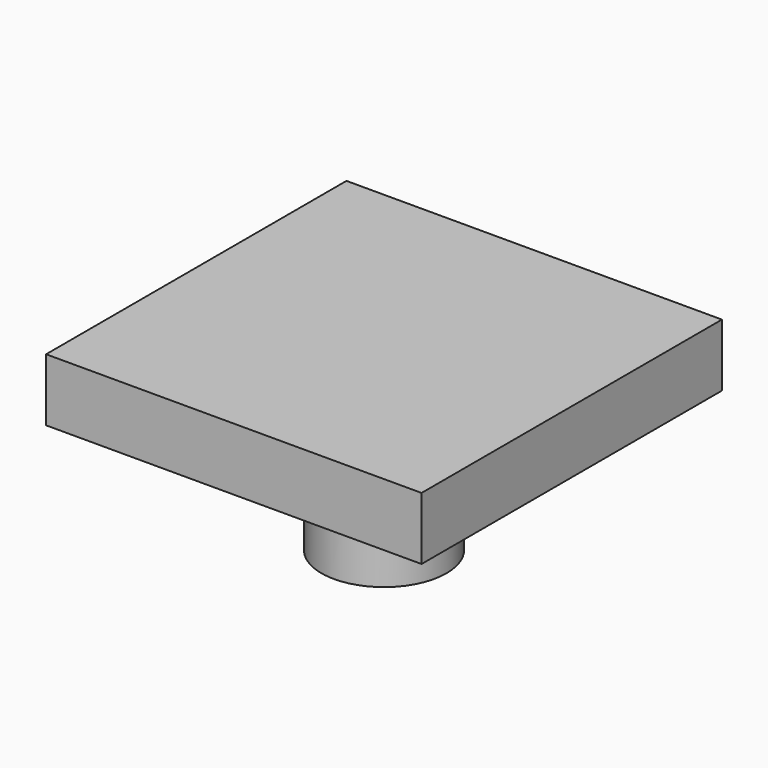
from build123d import *

# Parameters (mm, degrees)
F0_R     = 5
F1_DEPTH = 15
F0_W     = 30
F0_H     = 30
F2_DEPTH = 5
F4_D     = 2.5
F4_DEPTH = 10
F4_TIP   = 0.7510757738


with BuildPart() as f1:
    # F0 (on Top) → F1 (new body)
    with BuildSketch(Plane.XY):
        Circle(F0_R)
    extrude(amount=-F1_DEPTH)

    # F0 (on Top) → F2 (join)
    with BuildSketch(Plane.XY):
        Rectangle(F0_W, F0_H)
        Circle(F0_R, mode=Mode.SUBTRACT)
    extrude(amount=-F2_DEPTH)

    # F4
    with Locations(Plane(origin=(0, 0, -15), x_dir=(1, 0, 0), z_dir=(0, 0, -1))):
        with Locations((0, 0)):
            Hole(F4_D / 2, depth=F4_DEPTH)
            with Locations((0, 0, -(F4_DEPTH + F4_TIP / 2))):  # 118° drill point
                Cone(0, F4_D / 2, F4_TIP, mode=Mode.SUBTRACT)


solid = f1.part
